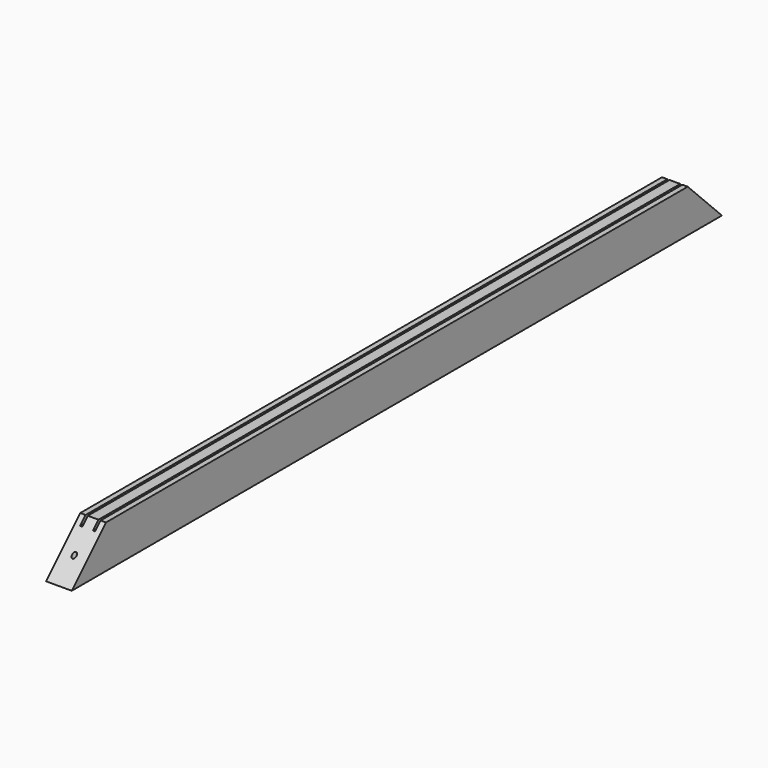
from build123d import *

# Parameters (mm, degrees)
F1_DEPTH = 603.25
F3_R     = 3.175
F4_DEPTH = 50.8
F5_DEPTH = 50.8
F6_R     = 3.175
F7_DEPTH = 6.35


with BuildPart() as f1:
    # F0 (on Front) → F1 (new body, symmetric)
    with BuildSketch(Plane.XZ):
        Polygon((-19.05, -31.75), (19.05, -31.75), (19.05, 31.75), (11.1125, 31.75), (11.1125, 21.59), (7.9375, 21.59), (7.9375, 31.75), (-7.9375, 31.75), (-7.9375, 21.59), (-11.1125, 21.59), (-11.1125, 31.75), (-19.05, 31.75), align=None)
    extrude(amount=F1_DEPTH, both=True)

    # F3 (on face) → F4 (cut)
    with BuildSketch(Plane.XY.offset(31.75)):
        with Locations((0, 574.675)):
            Circle(F3_R)
        with Locations((0, -574.675)):
            Circle(F3_R)
    extrude(amount=-F4_DEPTH, mode=Mode.SUBTRACT)

    # F2 (on face) → F5 (cut)
    with BuildSketch(Plane.YZ.offset(19.05)):
        Polygon((603.25, 31.75), (539.75, 31.75), (603.25, -31.75), align=None)
        Polygon((-603.25, 31.75), (-603.25, -31.75), (-539.75, 31.75), align=None)
    extrude(amount=-F5_DEPTH, mode=Mode.SUBTRACT)

    # F6 (on face) → F7 (cut)
    with BuildSketch(Plane(origin=(0, 0, -31.75), x_dir=(1, 0, 0), z_dir=(0, 0, -1))):
        with Locations((0, -457.2)):
            Circle(F6_R)
        with Locations((0, -152.4)):
            Circle(F6_R)
        with Locations((0, 152.4)):
            Circle(F6_R)
        with Locations((0, 457.2)):
            Circle(F6_R)
    extrude(amount=-F7_DEPTH, mode=Mode.SUBTRACT)


solid = f1.part
